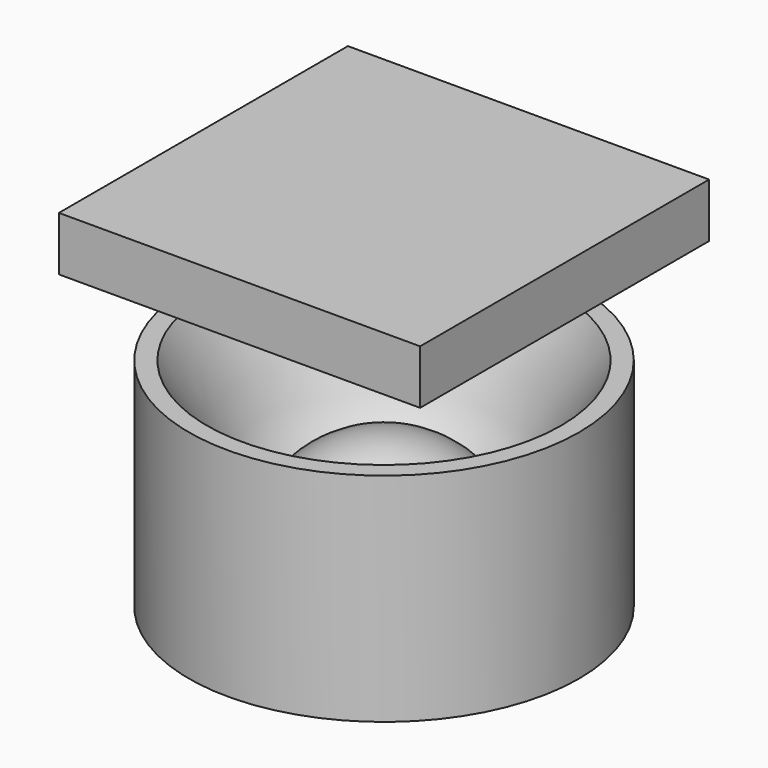
from build123d import *

# Parameters (mm, degrees)
F2_R      = 20
F3_DEPTH  = 60.0260001
F9_W      = 100
F9_H      = 100
F10_DEPTH = 15


with BuildPart() as f1:
    # F0 (on Front) → F1 (revolve)
    with BuildSketch(Plane.XZ):
        with BuildLine():
            Line((7, 0), (54, 0))
            Line((54, 0), (54, 60.025))
            Line((54, 60.025), (49, 60.025))
            add(Edge.make_bspline(
                [(7, 1.225), (8.2918844351, 1.656365385), (10.6344117794, 2.7992556088), (14.4726843549, 4.8552998081), (25.4154060733, 15.0353221815), (37.5535931678, 32.7083956946), (39.0819350647, 43.6967922724), (49, 60.025)],
                knots=[0.1746891991, 0.1746891991, 0.1746891991, 0.1746891991, 0.2650973756, 0.3588062568, 0.5353857795, 0.7360497648, 1, 1, 1, 1], degree=3))
            Line((7, 1.225), (7, 0))
        make_face()
    revolve(axis=Axis((0, 0, 75), (0, 0, -1)))

    # F2 (on face) → F3 (cut, through all)
    with BuildSketch(Plane(origin=(0, 0, 0), x_dir=(1, 0, 0), z_dir=(0, 0, -1))):
        Circle(F2_R)
    extrude(amount=-F3_DEPTH, mode=Mode.SUBTRACT)


with BuildPart() as f7:
    # F6 (on Front) → F7 (revolve)
    with BuildSketch(Plane.XZ):
        with BuildLine():
            ThreePointArc((-29.9311183954, 7.9682146759), (-21.9197805614, 30.4822659913), (0, 40))
            Line((0, 40), (0, 41))
            ThreePointArc((0, 41), (-22.6272550815, 31.1897930022), (-30.9333452507, 7.9682146759))
            Line((-30.9333452507, 7.9682146759), (-29.9311183954, 7.9682146759))
        make_face()
    revolve(axis=Axis((0, 0, 23.6347168684), (0, 0, 1)))


with BuildPart() as f10:
    # F9 (on offset) → F10 (new body)
    with BuildSketch(Plane.XY.offset(85.025)):
        Rectangle(F9_W, F9_H)
    extrude(amount=F10_DEPTH)


solid = Compound([f1.part, f7.part, f10.part])
